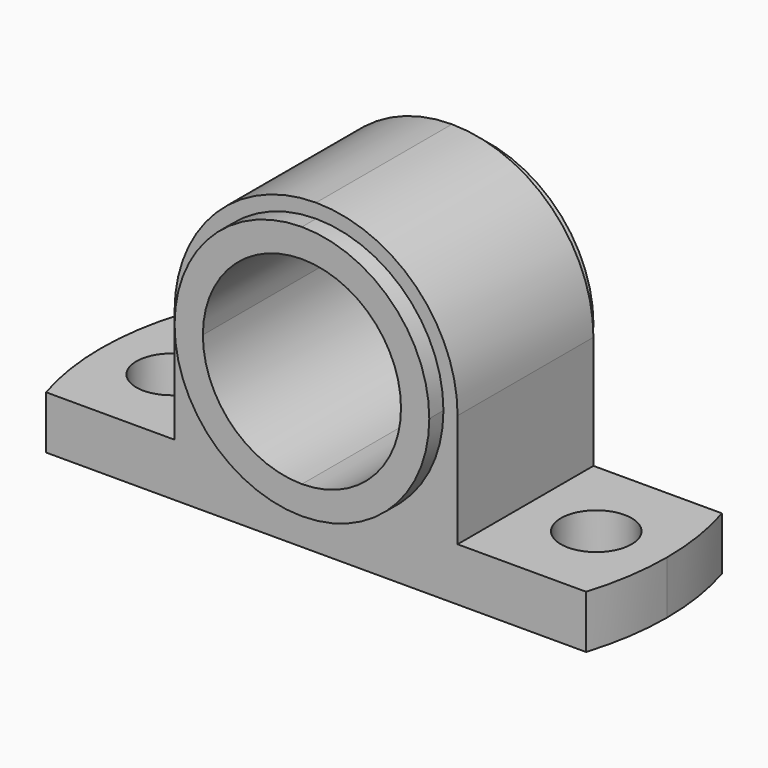
from build123d import *

# Parameters (mm, degrees)
F1_DEPTH = 304.8
F2_DEPTH = 368.3
F3_R     = 127
F4_DEPTH = 596.9
F5_R     = 127
F6_DEPTH = 190.501


with BuildPart() as f1:
    # F0 (on Front) → F1 (new body, symmetric)
    with BuildSketch(Plane.XZ):
        with BuildLine():
            Line((457.2, 0), (508, 0))
            ThreePointArc((508, 0), (359.210245, 359.210245), (0, 508))
            Line((0, 508), (0, 457.2))
            ThreePointArc((0, 457.2), (323.28922, 323.28922), (457.2, 0))
        make_face()
        with BuildLine():
            Line((508, -406.4), (508, 0))
            Line((508, 0), (457.2, 0))
            ThreePointArc((457.2, 0), (323.28922, -323.28922), (0, -457.2))
            ThreePointArc((0, -457.2), (-323.28922, -323.28922), (-457.2, 0))
            Line((-457.2, 0), (-508, 0))
            Line((-508, 0), (-508, -406.4))
            Line((-508, -406.4), (-1016, -406.4))
            Line((-1016, -406.4), (-1016, -596.9))
            Line((-1016, -596.9), (1016, -596.9))
            Line((1016, -596.9), (1016, -406.4))
            Line((1016, -406.4), (508, -406.4))
        make_face()
        with BuildLine():
            Line((0, 457.2), (0, 508))
            ThreePointArc((0, 508), (-359.210245, 359.210245), (-508, 0))
            Line((-508, 0), (-457.2, 0))
            ThreePointArc((-457.2, 0), (-323.28922, 323.28922), (0, 457.2))
        make_face()
    extrude(amount=F1_DEPTH, both=True)

    # F0 (on Front) → F2 (join, symmetric)
    with BuildSketch(Plane.XZ):
        with BuildLine():
            ThreePointArc((-457.2, 0), (-323.28922, -323.28922), (0, -457.2))
            Line((0, -457.2), (0, -355.6))
            ThreePointArc((0, -355.6), (-251.447171, -251.447171), (-355.6, 0))
            Line((-355.6, 0), (-457.2, 0))
        make_face()
        with BuildLine():
            ThreePointArc((0, -457.2), (323.28922, -323.28922), (457.2, 0))
            Line((457.2, 0), (355.6, 0))
            ThreePointArc((355.6, 0), (251.447171, -251.447171), (0, -355.6))
            Line((0, -355.6), (0, -457.2))
        make_face()
        with BuildLine():
            Line((355.6, 0), (457.2, 0))
            ThreePointArc((457.2, 0), (323.28922, 323.28922), (0, 457.2))
            Line((0, 457.2), (0, 355.6))
            ThreePointArc((0, 355.6), (251.447171, 251.447171), (355.6, 0))
        make_face()
        with BuildLine():
            Line((0, 355.6), (0, 457.2))
            ThreePointArc((0, 457.2), (-323.28922, 323.28922), (-457.2, 0))
            Line((-457.2, 0), (-355.6, 0))
            ThreePointArc((-355.6, 0), (-251.447171, 251.447171), (0, 355.6))
        make_face()
    extrude(amount=F2_DEPTH, both=True)

    # F3 (on face) → F4 (cut)
    with BuildSketch(Plane.XY.offset(-406.4)):
        with Locations((-762, 0)):
            Circle(F3_R)
        with BuildLine():
            ThreePointArc((-969.202229, -304.8), (-1004.232409, -154.185825), (-1016, -5e-06))
            Line((-1016, -5e-06), (-1016, -304.8))
            Line((-1016, -304.8), (-969.202229, -304.8))
        make_face()
        with BuildLine():
            ThreePointArc((-1016, -5e-06), (-1004.23241, 154.18582), (-969.202229, 304.8))
            Line((-969.202229, 304.8), (-1016, 304.8))
            Line((-1016, 304.8), (-1016, -5e-06))
        make_face()
    extrude(amount=-F4_DEPTH, mode=Mode.SUBTRACT)

    # F5 (on face) → F6 (cut, through all)
    with BuildSketch(Plane.XY.offset(-406.4)):
        with BuildLine():
            ThreePointArc((969.202229, 304.8), (1004.232409, 154.185822), (1016, 0))
            Line((1016, 0), (1016, 304.8))
            Line((1016, 304.8), (969.202229, 304.8))
        make_face()
        with BuildLine():
            ThreePointArc((1016, 0), (1004.232409, -154.185822), (969.202229, -304.8))
            Line((969.202229, -304.8), (1016, -304.8))
            Line((1016, -304.8), (1016, 0))
        make_face()
        with Locations((762, 0)):
            Circle(F5_R)
    extrude(amount=-F6_DEPTH, mode=Mode.SUBTRACT)


solid = f1.part
